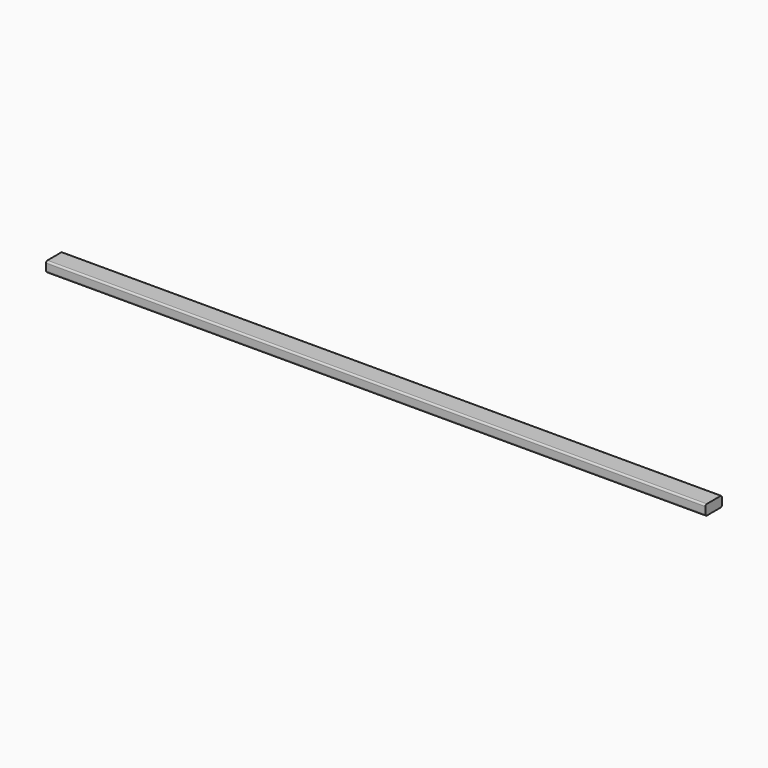
from build123d import *

# Parameters (mm, degrees)
F1_DEPTH = 1219.2


with BuildPart() as f1:
    # F0 (on Right) → F1 (new body)
    with BuildSketch(Plane.YZ):
        with BuildLine():
            ThreePointArc((0, 3.175), (0.929936, 0.929936), (3.175, 0))
            Line((3.175, 0), (34.925, 0))
            ThreePointArc((34.925, 0), (37.170064, 0.929936), (38.1, 3.175))
            Line((38.1, 3.175), (38.1, 15.875))
            ThreePointArc((38.1, 15.875), (37.170064, 18.120064), (34.925, 19.05))
            Line((34.925, 19.05), (3.175, 19.05))
            ThreePointArc((3.175, 19.05), (0.929936, 18.120064), (0, 15.875))
            Line((0, 15.875), (0, 3.175))
        make_face()
    extrude(amount=F1_DEPTH)


solid = f1.part
